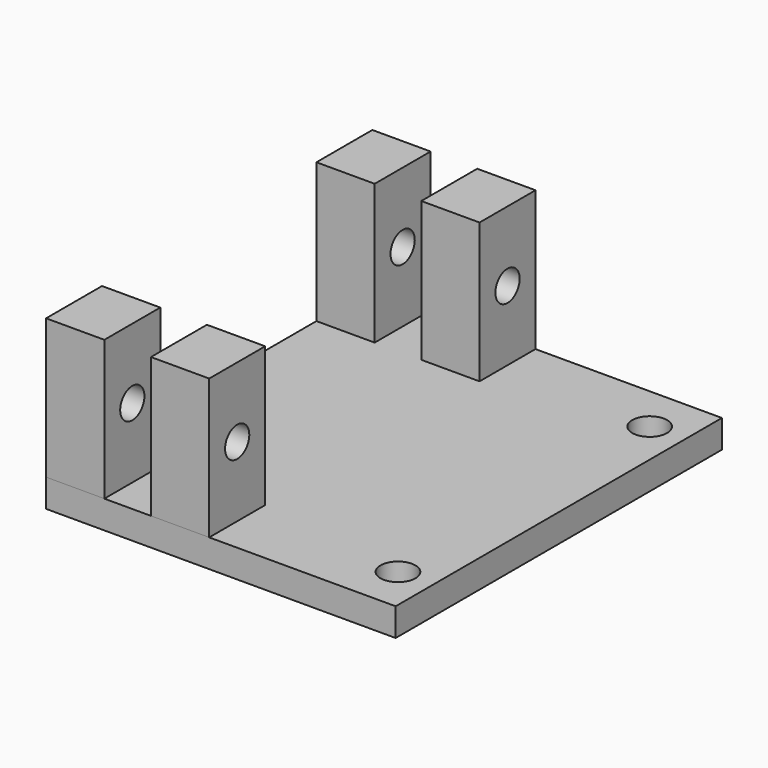
from build123d import *

# Parameters (mm, degrees)
SKETCH_W      = 30
SKETCH_H      = 35
SKETCH_R      = 1.5
PAD_DEPTH     = 2.4
SKETCH001_W   = 6
SKETCH001_H   = 12
SKETCH001_R   = 1.3
PAD001_DEPTH  = 5
ARRAY_X_COUNT = 2
ARRAY_X_PITCH = 9
ARRAY_Y_COUNT = 2
ARRAY_Y_PITCH = 29


with BuildPart() as pad:
    # Sketch → Pad (new body)
    with BuildSketch(Plane.XY):
        with Locations((15, 17.5)):
            Rectangle(SKETCH_W, SKETCH_H)
        with Locations((27, 4)):
            Circle(SKETCH_R, mode=Mode.SUBTRACT)
        with Locations((27, 31)):
            Circle(SKETCH_R, mode=Mode.SUBTRACT)
    extrude(amount=PAD_DEPTH)


with BuildPart() as array:
    # Sketch001 → Pad001 (new body)
    with BuildSketch(Plane.YZ):
        with Locations((3, 8.4)):
            Rectangle(SKETCH001_W, SKETCH001_H)
        with Locations((3, 8.4)):
            Circle(SKETCH001_R, mode=Mode.SUBTRACT)
    extrude(amount=PAD001_DEPTH)

    # Array X: Array ×2


with BuildPart() as array_1:
    add(array.part)
    with Locations(*[(i * ARRAY_X_PITCH, 0, 0) for i in range(1, ARRAY_X_COUNT)]):
        add(array.part)

    # Array Y: Array ×2


with BuildPart() as array_2:
    add(array_1.part)
    with Locations(*[(0, i * ARRAY_Y_PITCH, 0) for i in range(1, ARRAY_Y_COUNT)]):
        add(array_1.part)


solid = Compound([pad.part, array_2.part])
